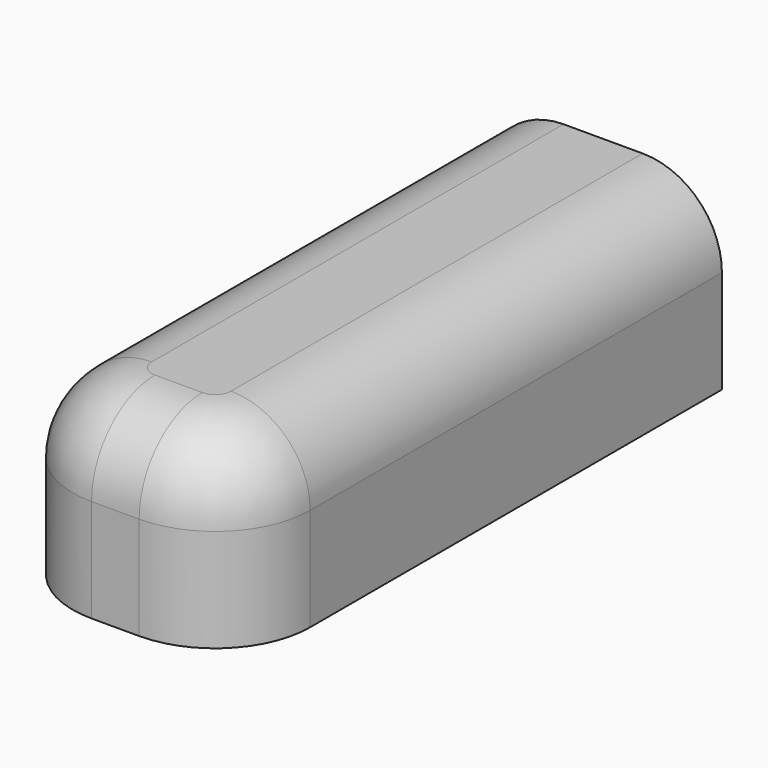
from build123d import *

# Parameters (mm, degrees)
F1_DEPTH = 23
F2_DEPTH = 23
F3_DEPTH = 10
F4_R     = 10
F6_D     = 5
F6_DEPTH = 4.3024359474


with BuildPart() as f1:
    # F0 (on Top) → F1 (new body)
    with BuildSketch(Plane.XY):
        with BuildLine():
            ThreePointArc((-10, -72.6985640526), (-1.5147186258, -69.1838454268), (2, -60.6985640526))
            Line((2, -60.6985640526), (2, 4.3014359474))
            Line((2, 4.3014359474), (-28, 4.3014359474))
            Line((-28, 4.3014359474), (-28, -60.6985640526))
            ThreePointArc((-28, -60.6985640526), (-24.4852813742, -69.1838454268), (-16, -72.6985640526))
            Line((-16, -72.6985640526), (-10, -72.6985640526))
        make_face()
        Polygon((-25, -45.6985640526), (-25, -0.6985640526), (-1, -0.6985640526), (-1, -45.6985640526), (0, -45.6985640526), (0, -52.6985640526), (-26, -52.6985640526), (-26, -45.6985640526), align=None, mode=Mode.SUBTRACT)
    extrude(amount=F1_DEPTH)

    # F0 (on Top) → F2 (join)
    with BuildSketch(Plane.XY):
        Polygon((-1, -0.6985640526), (-25, -0.6985640526), (-25, -45.6985640526), (-26, -45.6985640526), (-26, -52.6985640526), (0, -52.6985640526), (0, -45.6985640526), (-1, -45.6985640526), align=None)
    extrude(amount=F2_DEPTH)

    # F0 (on Top) → F3 (cut)
    with BuildSketch(Plane.XY):
        Polygon((-1, -0.6985640526), (-25, -0.6985640526), (-25, -45.6985640526), (-26, -45.6985640526), (-26, -52.6985640526), (0, -52.6985640526), (0, -45.6985640526), (-1, -45.6985640526), align=None)
    extrude(amount=F3_DEPTH, mode=Mode.SUBTRACT)

    # F4
    f4_edges = [f1.edges().sort_by_distance(p)[0] for p in [
        (-28, -28.198564, 23),
    ]]
    fillet(f4_edges, radius=F4_R)

    # F6 (through all, one way)
    with BuildSketch(Plane.XZ):
        with Locations((-13.2052563131, 0)):
            Circle(F6_D / 2)
    extrude(amount=-F6_DEPTH, mode=Mode.SUBTRACT)


solid = f1.part
